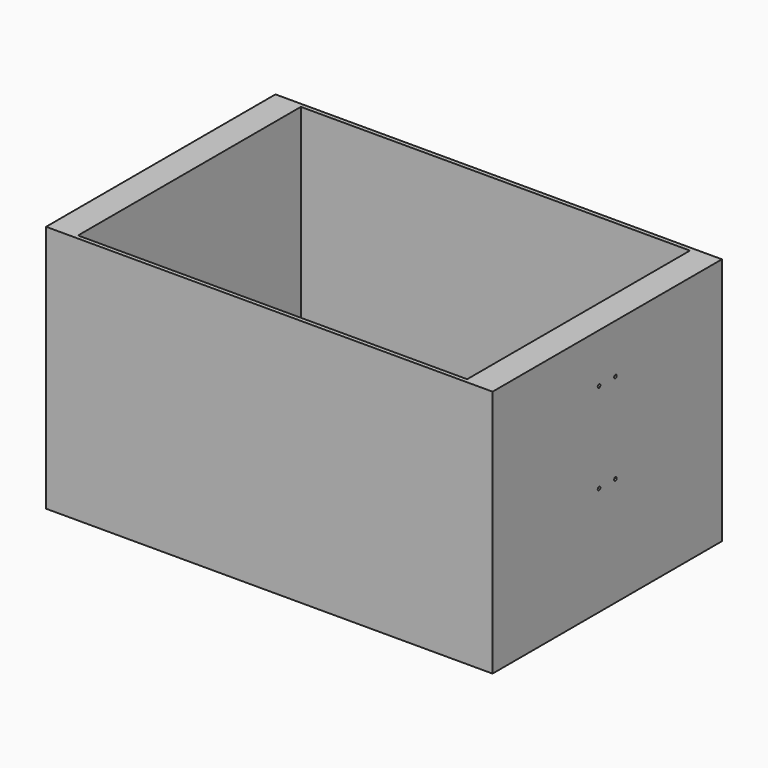
from build123d import *

# Parameters (mm, degrees)
F0_W     = 545
F0_H     = 350
F0_W_2   = 475
F0_H_2   = 340
F1_DEPTH = 149
F3_W     = 545
F3_H     = 350
F4_DEPTH = 5
F5_D     = 4
F5_DEPTH = 15
F5_TIP   = 1.2017212381


with BuildPart() as f1:
    # F0 (on Top) → F1 (new body, symmetric)
    with BuildSketch(Plane.XY):
        Rectangle(F0_W, F0_H)
        Rectangle(F0_W_2, F0_H_2, mode=Mode.SUBTRACT)
    extrude(amount=F1_DEPTH, both=True)

    # F3 (on face) → F4 (join)
    with BuildSketch(Plane(origin=(0, 0, -149), x_dir=(1, 0, 0), z_dir=(0, 0, -1))):
        Rectangle(F3_W, F3_H)
    extrude(amount=F4_DEPTH)

    # F5
    with Locations(Plane.YZ.offset(272.5)):
        with Locations((-12.5, 89), (12.5, 89), (-12.5, -21), (12.5, -21)):
            Hole(F5_D / 2, depth=F5_DEPTH)
            with Locations((0, 0, -(F5_DEPTH + F5_TIP / 2))):  # 118° drill point
                Cone(0, F5_D / 2, F5_TIP, mode=Mode.SUBTRACT)


solid = f1.part
